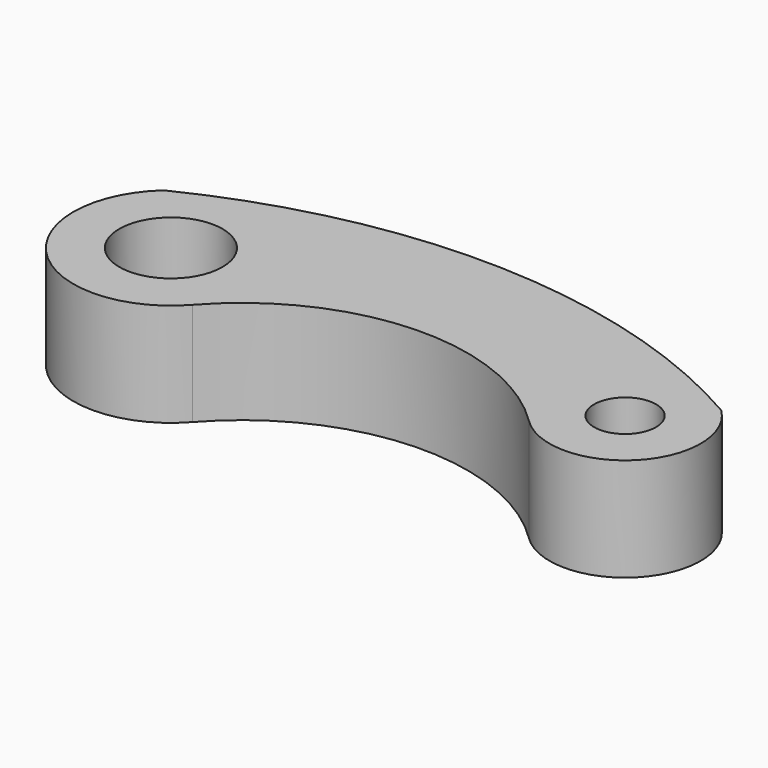
from build123d import *

# Parameters (mm, degrees)
F0_R     = 6.25
F0_R_2   = 12.5
F0_R_3   = 7.5
F2_DEPTH = 25


with BuildPart() as f2:
    # F0 (on Top) → F2 (new body)
    with BuildSketch(Plane.XY):
        with Locations((-104.994692, 25.218209)):
            Circle(F0_R)
        with Locations((-104.994692, 25.218209)):
            Circle(F0_R_2)
        with Locations((-104.994692, 25.218209)):
            Circle(F0_R, mode=Mode.SUBTRACT)
        with BuildLine():
            ThreePointArc((-87.287608, 9.55118), (-48.148689, 27.971451), (-7.870091, 12.198185))
            ThreePointArc((-7.870091, 12.198185), (18.065094, 12.383144), (17.799917, 38.317634))
            ThreePointArc((17.799917, 38.317634), (-50.949315, 57.897387), (-120.81698, 42.786698))
            ThreePointArc((-120.81698, 42.786698), (-121.639152, 8.426587), (-87.287608, 9.55118))
        make_face()
        with Locations((-104.994692, 25.218209)):
            Circle(F0_R_2, mode=Mode.SUBTRACT)
        with Locations((5.005308, 25.218209)):
            Circle(F0_R_3, mode=Mode.SUBTRACT)
    extrude(amount=F2_DEPTH)


solid = f2.part
